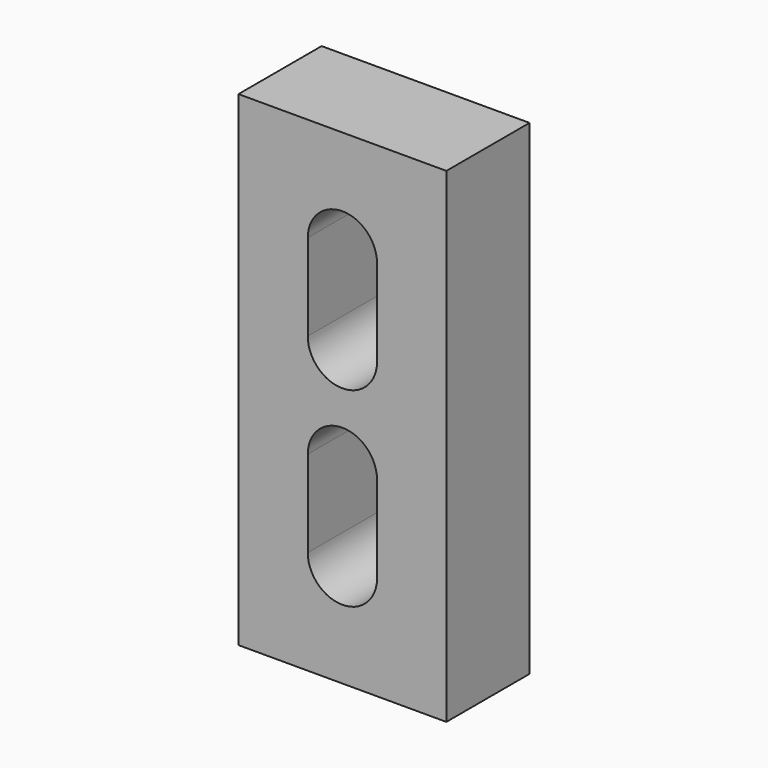
from build123d import *

# Parameters (mm, degrees)
F0_W     = 20
F0_H     = 20
F1_DEPTH = 30


with BuildPart() as f1:
    # F0 (on Front) → F1 (new body)
    with BuildSketch(Plane.XZ):
        Polygon((20, 20), (20, 0), (60, 0), (60, 120), (40, 120), (40, 140), (0, 140), (0, 20), align=None)
        with BuildLine():
            ThreePointArc((40, 30), (30, 20), (20, 30))
            Line((20, 30), (20, 55))
            ThreePointArc((20, 55), (30, 65), (40, 55))
            Line((40, 55), (40, 30))
        make_face(mode=Mode.SUBTRACT)
        with BuildLine():
            ThreePointArc((20, 110), (30, 120), (40, 110))
            Line((40, 110), (40, 85))
            ThreePointArc((40, 85), (30, 75), (20, 85))
            Line((20, 85), (20, 110))
        make_face(mode=Mode.SUBTRACT)
        with Locations((50, 130)):
            Rectangle(F0_W, F0_H)
        with Locations((10, 10)):
            Rectangle(F0_W, F0_H)
    extrude(amount=F1_DEPTH)


solid = f1.part
